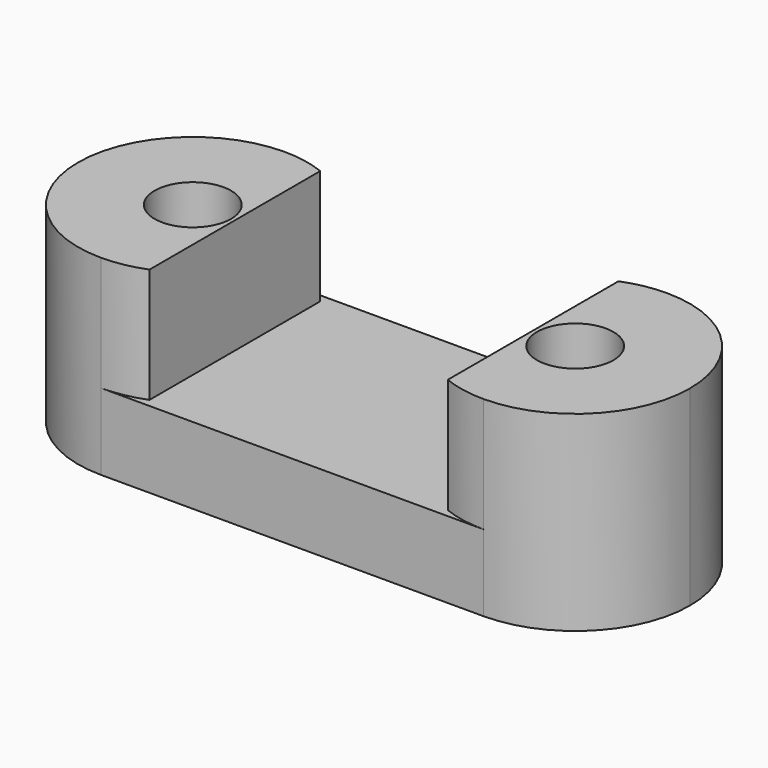
from build123d import *

# Parameters (mm, degrees)
F0_R     = 1
F1_DEPTH = 5
F2_DEPTH = 2


with BuildPart() as f1:
    # F0 (on Top) → F1 (new body)
    with BuildSketch(Plane.XY):
        with BuildLine():
            Line((1.1, -2.7910571474), (1.1, 2.7910571474))
            ThreePointArc((1.1, 2.7910571474), (0.559834153, 2.9473014303), (0, 3))
            ThreePointArc((0, 3), (-3, 0), (0, -3))
            ThreePointArc((0, -3), (0.559834153, -2.9473014303), (1.1, -2.7910571474))
        make_face()
        Circle(F0_R, mode=Mode.SUBTRACT)
    extrude(amount=F1_DEPTH)


with BuildPart() as f1b:
    # F0 (on Top) → F1, piece 2 (new body)
    with BuildSketch(Plane.XY):
        with BuildLine():
            ThreePointArc((13, 0), (12.1213203436, 2.1213203436), (10, 3))
            ThreePointArc((10, 3), (9.440165847, 2.9473014303), (8.9, 2.7910571474))
            Line((8.9, 2.7910571474), (8.9, -2.7910571474))
            ThreePointArc((8.9, -2.7910571474), (9.440165847, -2.9473014303), (10, -3))
            ThreePointArc((10, -3), (12.1213203436, -2.1213203436), (13, 0))
        make_face()
        with Locations((10, 0)):
            Circle(F0_R, mode=Mode.SUBTRACT)
    extrude(amount=F1_DEPTH)


with BuildPart() as f2:
    # F0 (on Top) → F2 (new body)
    with BuildSketch(Plane.XY):
        with BuildLine():
            ThreePointArc((1.1, -2.7910571474), (2.4799193535, -1.6881943016), (3, 0))
            ThreePointArc((3, 0), (2.4799193535, 1.6881943016), (1.1, 2.7910571474))
            Line((1.1, 2.7910571474), (1.1, -2.7910571474))
        make_face()
        with BuildLine():
            ThreePointArc((1.1, 2.7910571474), (2.4799193535, 1.6881943016), (3, 0))
            ThreePointArc((3, 0), (2.4799193535, -1.6881943016), (1.1, -2.7910571474))
            ThreePointArc((1.1, -2.7910571474), (0.559834153, -2.9473014303), (0, -3))
            Line((0, -3), (5, -3))
            Line((5, -3), (5, 3))
            Line((5, 3), (0, 3))
            ThreePointArc((0, 3), (0.559834153, 2.9473014303), (1.1, 2.7910571474))
        make_face()
        with BuildLine():
            Line((10, 3), (5, 3))
            Line((5, 3), (5, -3))
            Line((5, -3), (10, -3))
            ThreePointArc((10, -3), (9.440165847, -2.9473014303), (8.9, -2.7910571474))
            ThreePointArc((8.9, -2.7910571474), (7, 0), (8.9, 2.7910571474))
            ThreePointArc((8.9, 2.7910571474), (9.440165847, 2.9473014303), (10, 3))
        make_face()
        with BuildLine():
            Line((8.9, -2.7910571474), (8.9, 2.7910571474))
            ThreePointArc((8.9, 2.7910571474), (7, 0), (8.9, -2.7910571474))
        make_face()
    extrude(amount=F2_DEPTH)


solid = Compound([f1.part, f1b.part, f2.part])
